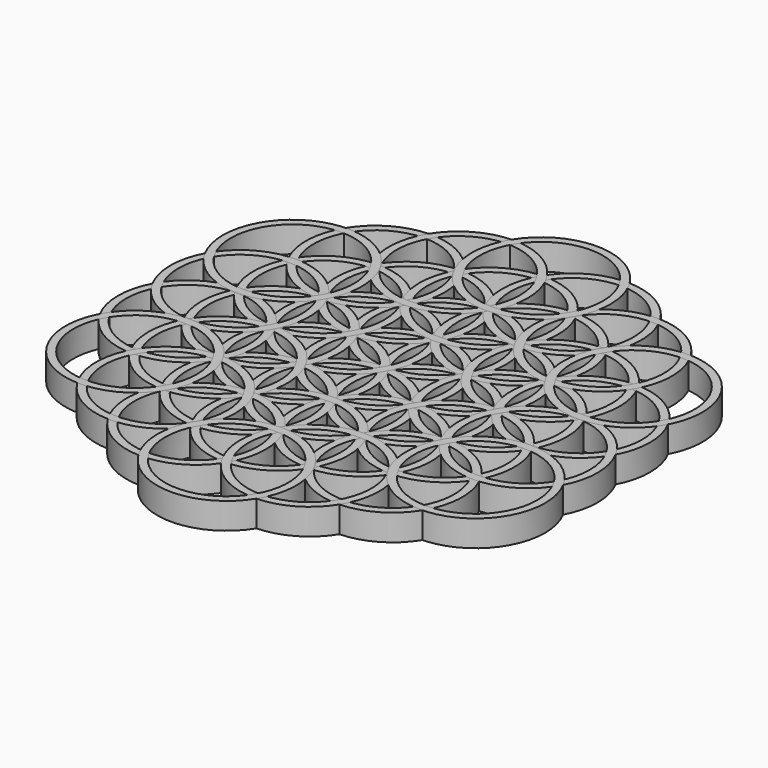
from build123d import *

# Parameters (mm, degrees)
F1_R      = 26.5
F1_R_2    = 23.5
F2_DEPTH  = 10
F3_R      = 26.5
F3_R_2    = 23.5
F4_DEPTH  = 10
F5_COUNT  = 6
F6_R      = 26.5
F6_R_2    = 23.5
F7_DEPTH  = 10
F8_COUNT  = 6
F9_R      = 26.5
F9_R_2    = 23.5
F10_DEPTH = 10
F11_COUNT = 6
F12_R     = 26.5
F12_R_2   = 23.5
F13_DEPTH = 10
F14_COUNT = 6
F15_R     = 26.5
F15_R_2   = 23.5
F16_DEPTH = 10
F17_COUNT = 6
F18_R     = 26.5
F18_R_2   = 23.5
F19_DEPTH = 10
F20_COUNT = 6


with BuildPart() as f2:
    # F1 (on Top) → F2 (new body)
    with BuildSketch(Plane.XY):
        Circle(F1_R)
        Circle(F1_R_2, mode=Mode.SUBTRACT)
    extrude(amount=F2_DEPTH)


with BuildPart() as f4:
    # F3 (on Top) → F4 (new body)
    with BuildSketch(Plane.XY):
        with Locations((0, 25)):
            Circle(F3_R)
        with Locations((0, 25)):
            Circle(F3_R_2, mode=Mode.SUBTRACT)
    extrude(amount=F4_DEPTH)


with BuildPart() as f5_1:
    # F5: instance of F4
    add(f4.part.rotate(Axis((0, 0, -4.683914), (0, 0, -1)), 1 * 360 / F5_COUNT))


with BuildPart() as f5_2:
    # F5: instance of F4
    add(f4.part.rotate(Axis((0, 0, -4.683914), (0, 0, -1)), 2 * 360 / F5_COUNT))


with BuildPart() as f5_3:
    # F5: instance of F4
    add(f4.part.rotate(Axis((0, 0, -4.683914), (0, 0, -1)), 3 * 360 / F5_COUNT))


with BuildPart() as f5_4:
    # F5: instance of F4
    add(f4.part.rotate(Axis((0, 0, -4.683914), (0, 0, -1)), 4 * 360 / F5_COUNT))


with BuildPart() as f5_5:
    # F5: instance of F4
    add(f4.part.rotate(Axis((0, 0, -4.683914), (0, 0, -1)), 5 * 360 / F5_COUNT))


with BuildPart() as f7:
    # F6 (on Top) → F7 (new body)
    with BuildSketch(Plane.XY):
        with Locations((-21.650635, 37.5)):
            Circle(F6_R)
        with Locations((-21.650635, 37.5)):
            Circle(F6_R_2, mode=Mode.SUBTRACT)
    extrude(amount=F7_DEPTH)


with BuildPart() as f8_1:
    # F8: instance of F7
    add(f7.part.rotate(Axis((0, 0, -4.683914), (0, 0, -1)), 1 * 360 / F8_COUNT))


with BuildPart() as f8_2:
    # F8: instance of F7
    add(f7.part.rotate(Axis((0, 0, -4.683914), (0, 0, -1)), 2 * 360 / F8_COUNT))


with BuildPart() as f8_3:
    # F8: instance of F7
    add(f7.part.rotate(Axis((0, 0, -4.683914), (0, 0, -1)), 3 * 360 / F8_COUNT))


with BuildPart() as f8_4:
    # F8: instance of F7
    add(f7.part.rotate(Axis((0, 0, -4.683914), (0, 0, -1)), 4 * 360 / F8_COUNT))


with BuildPart() as f8_5:
    # F8: instance of F7
    add(f7.part.rotate(Axis((0, 0, -4.683914), (0, 0, -1)), 5 * 360 / F8_COUNT))


with BuildPart() as f10:
    # F9 (on Top) → F10 (new body)
    with BuildSketch(Plane.XY):
        with Locations((-43.30127, 25)):
            Circle(F9_R)
        with Locations((-43.30127, 25)):
            Circle(F9_R_2, mode=Mode.SUBTRACT)
    extrude(amount=F10_DEPTH)


with BuildPart() as f11_1:
    # F11: instance of F10
    add(f10.part.rotate(Axis((0, 0, -4.683914), (0, 0, -1)), 1 * 360 / F11_COUNT))


with BuildPart() as f11_2:
    # F11: instance of F10
    add(f10.part.rotate(Axis((0, 0, -4.683914), (0, 0, -1)), 2 * 360 / F11_COUNT))


with BuildPart() as f11_3:
    # F11: instance of F10
    add(f10.part.rotate(Axis((0, 0, -4.683914), (0, 0, -1)), 3 * 360 / F11_COUNT))


with BuildPart() as f11_4:
    # F11: instance of F10
    add(f10.part.rotate(Axis((0, 0, -4.683914), (0, 0, -1)), 4 * 360 / F11_COUNT))


with BuildPart() as f11_5:
    # F11: instance of F10
    add(f10.part.rotate(Axis((0, 0, -4.683914), (0, 0, -1)), 5 * 360 / F11_COUNT))


with BuildPart() as f13:
    # F12 (on Top) → F13 (new body)
    with BuildSketch(Plane.XY):
        with Locations((-43.30127, 50)):
            Circle(F12_R)
        with Locations((-43.30127, 50)):
            Circle(F12_R_2, mode=Mode.SUBTRACT)
    extrude(amount=F13_DEPTH)


with BuildPart() as f14_1:
    # F14: instance of F13
    add(f13.part.rotate(Axis((0, 0, -4.683914), (0, 0, -1)), 1 * 360 / F14_COUNT))


with BuildPart() as f14_2:
    # F14: instance of F13
    add(f13.part.rotate(Axis((0, 0, -4.683914), (0, 0, -1)), 2 * 360 / F14_COUNT))


with BuildPart() as f14_3:
    # F14: instance of F13
    add(f13.part.rotate(Axis((0, 0, -4.683914), (0, 0, -1)), 3 * 360 / F14_COUNT))


with BuildPart() as f14_4:
    # F14: instance of F13
    add(f13.part.rotate(Axis((0, 0, -4.683914), (0, 0, -1)), 4 * 360 / F14_COUNT))


with BuildPart() as f14_5:
    # F14: instance of F13
    add(f13.part.rotate(Axis((0, 0, -4.683914), (0, 0, -1)), 5 * 360 / F14_COUNT))


with BuildPart() as f16:
    # F15 (on Top) → F16 (new body)
    with BuildSketch(Plane.XY):
        with Locations((-21.650635, 62.5)):
            Circle(F15_R)
        with Locations((-21.650635, 62.5)):
            Circle(F15_R_2, mode=Mode.SUBTRACT)
    extrude(amount=F16_DEPTH)


with BuildPart() as f17_1:
    # F17: instance of F16
    add(f16.part.rotate(Axis((0, 0, -4.683914), (0, 0, -1)), 1 * 360 / F17_COUNT))


with BuildPart() as f17_2:
    # F17: instance of F16
    add(f16.part.rotate(Axis((0, 0, -4.683914), (0, 0, -1)), 2 * 360 / F17_COUNT))


with BuildPart() as f17_3:
    # F17: instance of F16
    add(f16.part.rotate(Axis((0, 0, -4.683914), (0, 0, -1)), 3 * 360 / F17_COUNT))


with BuildPart() as f17_4:
    # F17: instance of F16
    add(f16.part.rotate(Axis((0, 0, -4.683914), (0, 0, -1)), 4 * 360 / F17_COUNT))


with BuildPart() as f17_5:
    # F17: instance of F16
    add(f16.part.rotate(Axis((0, 0, -4.683914), (0, 0, -1)), 5 * 360 / F17_COUNT))


with BuildPart() as f19:
    # F18 (on Top) → F19 (new body)
    with BuildSketch(Plane.XY):
        with Locations((0, 75)):
            Circle(F18_R)
        with Locations((0, 75)):
            Circle(F18_R_2, mode=Mode.SUBTRACT)
    extrude(amount=F19_DEPTH)


with BuildPart() as f20_1:
    # F20: instance of F19
    add(f19.part.rotate(Axis((0, 0, -4.683914), (0, 0, -1)), 1 * 360 / F20_COUNT))


with BuildPart() as f20_2:
    # F20: instance of F19
    add(f19.part.rotate(Axis((0, 0, -4.683914), (0, 0, -1)), 2 * 360 / F20_COUNT))


with BuildPart() as f20_3:
    # F20: instance of F19
    add(f19.part.rotate(Axis((0, 0, -4.683914), (0, 0, -1)), 3 * 360 / F20_COUNT))


with BuildPart() as f20_4:
    # F20: instance of F19
    add(f19.part.rotate(Axis((0, 0, -4.683914), (0, 0, -1)), 4 * 360 / F20_COUNT))


with BuildPart() as f20_5:
    # F20: instance of F19
    add(f19.part.rotate(Axis((0, 0, -4.683914), (0, 0, -1)), 5 * 360 / F20_COUNT))


solid = Compound([f2.part, f4.part, f5_1.part, f5_2.part, f5_3.part, f5_4.part, f5_5.part, f7.part, f8_1.part, f8_2.part, f8_3.part, f8_4.part, f8_5.part, f10.part, f11_1.part, f11_2.part, f11_3.part, f11_4.part, f11_5.part, f13.part, f14_1.part, f14_2.part, f14_3.part, f14_4.part, f14_5.part, f16.part, f17_1.part, f17_2.part, f17_3.part, f17_4.part, f17_5.part, f19.part, f20_1.part, f20_2.part, f20_3.part, f20_4.part, f20_5.part])
